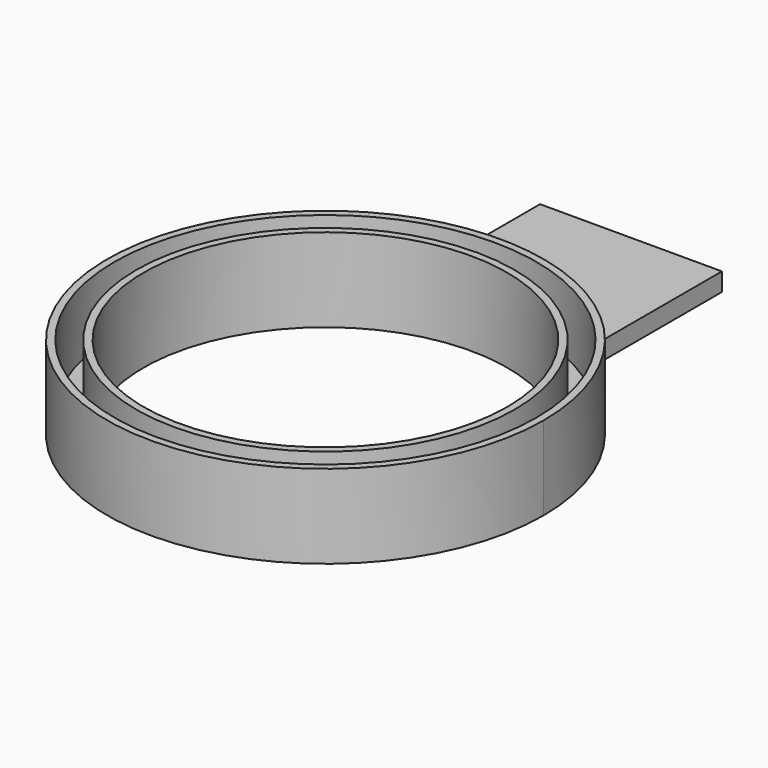
from build123d import *

# Parameters (mm, degrees)
F0_R     = 50
F1_DEPTH = 5
F2_R     = 58
F2_R_2   = 52
F2_R_3   = 50
F3_DEPTH = 18


with BuildPart() as f1:
    # F0 (on Top) → F1 (new body)
    with BuildSketch(Plane.XY):
        with BuildLine():
            ThreePointArc((-25, 54.543561), (-32.403703, -50.497525), (60, 0))
            ThreePointArc((60, 0), (50.497525, 32.403703), (25, 54.543561))
            ThreePointArc((25, 54.543561), (0, 60), (-25, 54.543561))
        make_face()
        Circle(F0_R, mode=Mode.SUBTRACT)
        with BuildLine():
            ThreePointArc((-25, 54.543561), (0, 60), (25, 54.543561))
            Line((25, 54.543561), (25, 60))
            Line((25, 60), (25, 105))
            Line((25, 105), (-25, 105))
            Line((-25, 105), (-25, 54.543561))
        make_face()
    extrude(amount=F1_DEPTH)

    # F2 (on face) → F3 (join)
    with BuildSketch(Plane.XY.offset(5)):
        with BuildLine():
            ThreePointArc((-25, 54.543561), (-32.403703, -50.497525), (60, 0))
            ThreePointArc((60, 0), (50.497525, 32.403703), (25, 54.543561))
            ThreePointArc((25, 54.543561), (0, 60), (-25, 54.543561))
        make_face()
        Circle(F2_R, mode=Mode.SUBTRACT)
        Circle(F2_R_2)
        Circle(F2_R_3, mode=Mode.SUBTRACT)
    extrude(amount=F3_DEPTH)


solid = f1.part
